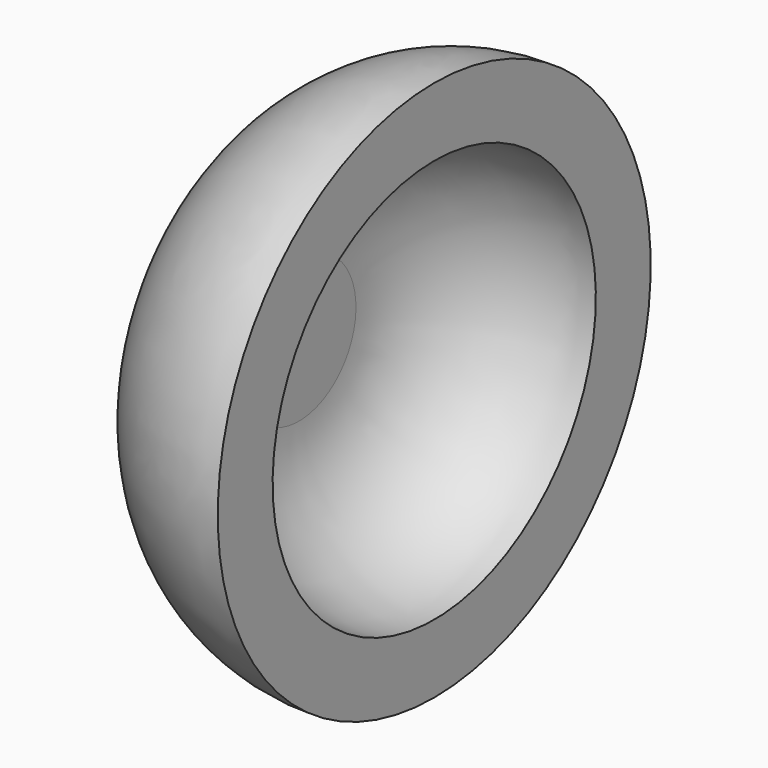
from build123d import *


with BuildPart() as f1:
    # F0 (on Front) → F1 (revolve)
    with BuildSketch(Plane.XZ):
        with BuildLine():
            Line((3, 9.837547), (3, 0))
            Line((3, 0), (6, 0))
            Line((6, 0), (6, 7.375731))
            ThreePointArc((6, 7.375731), (10.130016, 17.11015), (20, 20.904799))
            Line((20, 20.904799), (20, 28))
            ThreePointArc((20, 28), (7.706767, 24.276048), (0, 14))
            Line((0, 14), (0, 9.837547))
            Line((0, 9.837547), (3, 9.837547))
        make_face()
    revolve(axis=Axis((10, 0, 0), (-1, 0, 0)))


solid = f1.part
